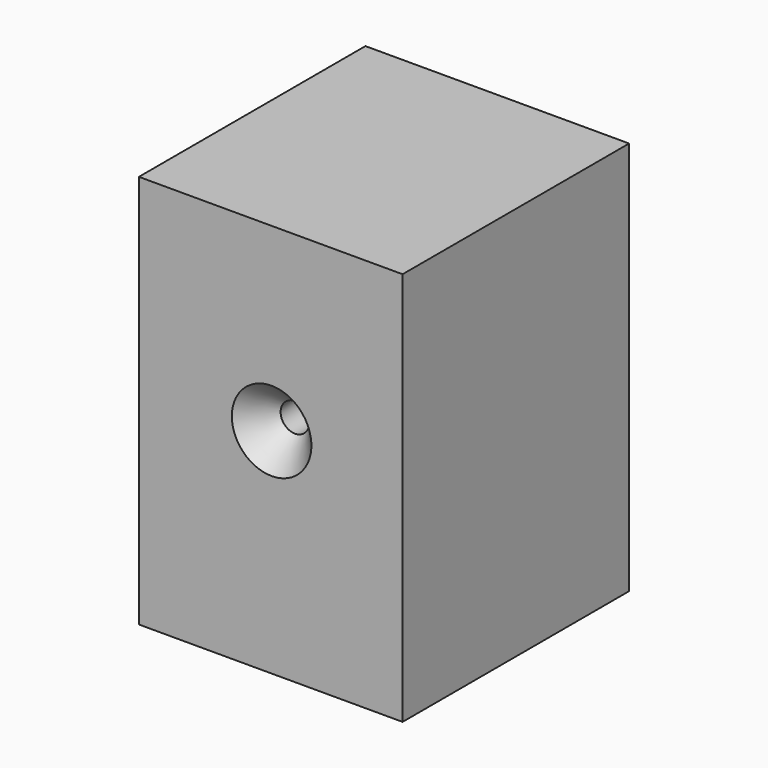
from build123d import *

# Parameters (mm, degrees)
F0_W           = 23.6548669636
F0_H           = 35.3559218347
F1_DEPTH       = 25.4
F3_D           = 2.5781
F3_DEPTH       = 15.8496
F3_CSINK_D     = 7.1374
F3_CSINK_ANGLE = 82
F3_TIP         = 0.774539381


with BuildPart() as f1:
    # F0 (on Front) → F1 (new body)
    with BuildSketch(Plane.XZ):
        with Locations((-57.1659114212, 46.1829993874)):
            Rectangle(F0_W, F0_H)
    extrude(amount=F1_DEPTH)

    # F3
    with Locations(Plane.XZ.offset(25.4)):
        with Locations((-57.0883825421, 47.6693250239)):
            CounterSinkHole(F3_D / 2, F3_CSINK_D / 2, depth=F3_DEPTH, counter_sink_angle=F3_CSINK_ANGLE)
            with Locations((0, 0, -(F3_DEPTH + F3_TIP / 2))):  # 118° drill point
                Cone(0, F3_D / 2, F3_TIP, mode=Mode.SUBTRACT)


solid = f1.part
